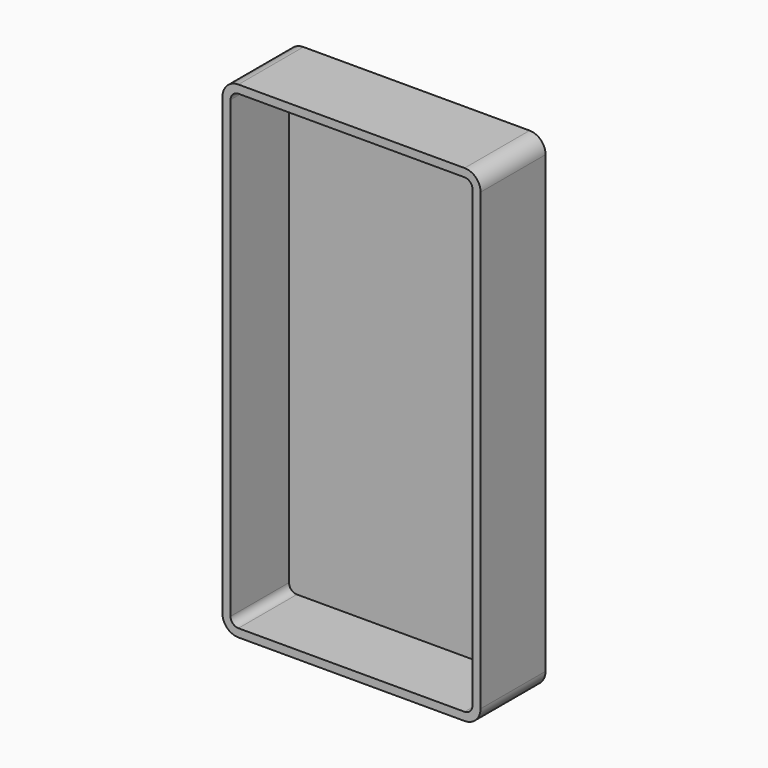
from build123d import *

# Parameters (mm, degrees)
F0_W     = 80.713644
F0_H     = 152.196348
F1_DEPTH = 12.7
F2_R     = 5
F3_T     = -2.54


with BuildPart() as f1:
    # F0 (on Front) → F1 (new body, symmetric)
    with BuildSketch(Plane.XZ):
        Rectangle(F0_W, F0_H)
    extrude(amount=F1_DEPTH, both=True)

    # F2
    f2_edges = [f1.edges().sort_by_distance(p)[0] for p in [
        (-40.356822, 0, 76.098174),
        (40.356822, 0, 76.098174),
        (40.356822, 0, -76.098174),
        (-40.356822, 0, -76.098174),
    ]]
    fillet(f2_edges, radius=F2_R)

    # F3
    f3_openings = [f1.faces().sort_by_distance(p)[0] for p in [
        (0, -12.7, 0),
    ]]
    offset(amount=F3_T, openings=f3_openings)


solid = f1.part
